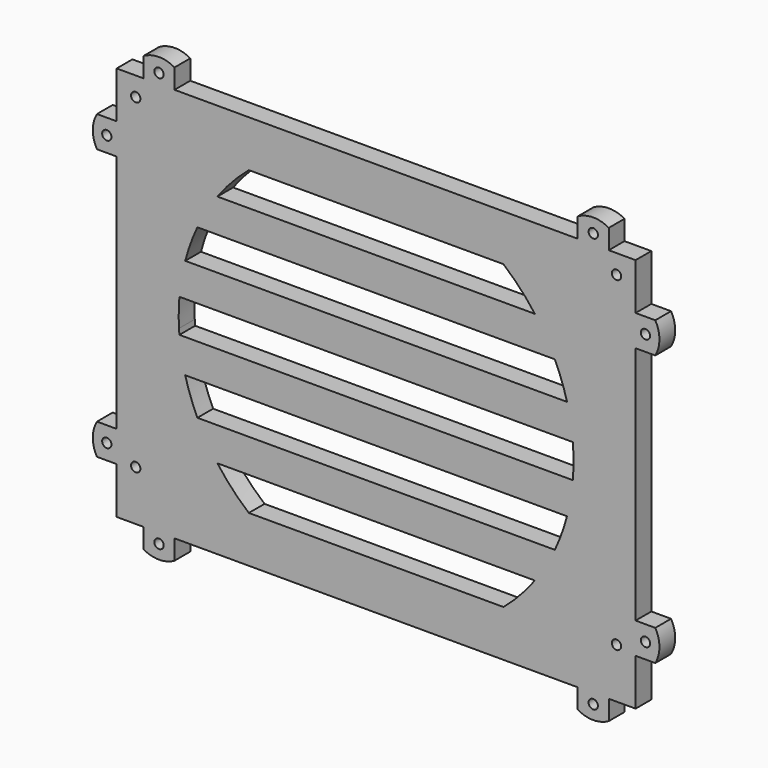
from build123d import *

# Parameters (mm, degrees)
F0_R     = 1.5
F1_DEPTH = 6.35


with BuildPart() as f1:
    # F0 (on Front) → F1 (new body)
    with BuildSketch(Plane.XZ):
        with BuildLine():
            Line((0, 15), (0, 0))
            Line((0, 0), (8.65, 0))
            Line((8.65, 0), (8.65, -6.35))
            ThreePointArc((8.65, -6.35), (13.65, -7.689746), (18.65, -6.35))
            Line((18.65, -6.35), (18.65, 0))
            Line((18.65, 0), (148.65, 0))
            Line((148.65, 0), (148.65, -6.35))
            ThreePointArc((148.65, -6.35), (153.65, -7.689746), (158.65, -6.35))
            Line((158.65, -6.35), (158.65, -6.289838))
            Line((158.65, -6.289838), (158.65, 0))
            Line((158.65, 0), (167.3, 0))
            Line((167.3, 0), (167.3, 15))
            Line((167.3, 15), (173.65, 15))
            ThreePointArc((173.65, 15), (174.989746, 20), (173.65, 25))
            Line((173.65, 25), (167.3, 25))
            Line((167.3, 25), (167.3, 102.3))
            Line((167.3, 102.3), (173.65, 102.3))
            ThreePointArc((173.65, 102.3), (174.989746, 107.3), (173.65, 112.3))
            Line((173.65, 112.3), (167.3, 112.3))
            Line((167.3, 112.3), (167.3, 127.3))
            Line((167.3, 127.3), (158.65, 127.3))
            Line((158.65, 127.3), (158.65, 133.65))
            ThreePointArc((158.65, 133.65), (153.65, 134.989746), (148.65, 133.65))
            Line((148.65, 133.65), (148.65, 127.3))
            Line((148.65, 127.3), (18.65, 127.3))
            Line((18.65, 127.3), (18.65, 133.65))
            ThreePointArc((18.65, 133.65), (13.65, 134.989746), (8.65, 133.65))
            Line((8.65, 133.65), (8.65, 127.3))
            Line((8.65, 127.3), (0, 127.3))
            Line((0, 127.3), (0, 112.3))
            Line((0, 112.3), (-6.35, 112.3))
            ThreePointArc((-6.35, 112.3), (-7.689746, 107.3), (-6.35, 102.3))
            Line((-6.35, 102.3), (0, 102.3))
            Line((0, 102.3), (0, 25))
            Line((0, 25), (-6.35, 25))
            ThreePointArc((-6.35, 25), (-7.689746, 20), (-6.35, 15))
            Line((-6.35, 15), (0, 15))
        make_face()
        with Locations((13.65, -3.175)):
            Circle(F0_R, mode=Mode.SUBTRACT)
        with Locations((6.15, 16.15)):
            Circle(F0_R, mode=Mode.SUBTRACT)
        with Locations((-3.175, 20)):
            Circle(F0_R, mode=Mode.SUBTRACT)
        with BuildLine():
            Line((32.471991, 25.806455), (134.828009, 25.806455))
            ThreePointArc((134.828009, 25.806455), (130.075832, 20.107324), (124.692661, 15))
            Line((124.692661, 15), (42.607339, 15))
            ThreePointArc((42.607339, 15), (37.224168, 20.107324), (32.471991, 25.806455))
        make_face(mode=Mode.SUBTRACT)
        with BuildLine():
            Line((22.104172, 47.419365), (145.195828, 47.419365))
            ThreePointArc((145.195828, 47.419365), (143.478503, 41.927369), (141.272203, 36.61291))
            Line((141.272203, 36.61291), (26.027797, 36.61291))
            ThreePointArc((26.027797, 36.61291), (23.821497, 41.927369), (22.104172, 47.419365))
        make_face(mode=Mode.SUBTRACT)
        with Locations((153.65, -3.175)):
            Circle(F0_R, mode=Mode.SUBTRACT)
        with Locations((161.15, 16.15)):
            Circle(F0_R, mode=Mode.SUBTRACT)
        with Locations((170.475, 20)):
            Circle(F0_R, mode=Mode.SUBTRACT)
        with BuildLine():
            ThreePointArc((20.1014, 60.058627), (20.006631, 64.568711), (20.231542, 69.074179))
            Line((20.231542, 69.074179), (147.068458, 69.074179))
            ThreePointArc((147.068458, 69.074179), (147.299997, 63.671028), (147.072028, 58.267724))
            Line((147.072028, 58.267724), (20.227972, 58.267724))
            ThreePointArc((20.227972, 58.267724), (20.158371, 59.162729), (20.1014, 60.058627))
        make_face(mode=Mode.SUBTRACT)
        with BuildLine():
            ThreePointArc((22.104172, 79.880635), (23.821497, 85.372631), (26.027797, 90.68709))
            Line((26.027797, 90.68709), (141.272203, 90.68709))
            ThreePointArc((141.272203, 90.68709), (143.478503, 85.372631), (145.195828, 79.880635))
            Line((145.195828, 79.880635), (22.104172, 79.880635))
        make_face(mode=Mode.SUBTRACT)
        with Locations((-3.175, 107.3)):
            Circle(F0_R, mode=Mode.SUBTRACT)
        with Locations((6.15, 121.15)):
            Circle(F0_R, mode=Mode.SUBTRACT)
        with Locations((13.65, 130.475)):
            Circle(F0_R, mode=Mode.SUBTRACT)
        with BuildLine():
            ThreePointArc((32.471991, 101.493545), (37.224168, 107.192676), (42.607339, 112.3))
            Line((42.607339, 112.3), (124.692661, 112.3))
            ThreePointArc((124.692661, 112.3), (130.075832, 107.192676), (134.828009, 101.493545))
            Line((134.828009, 101.493545), (32.471991, 101.493545))
        make_face(mode=Mode.SUBTRACT)
        with Locations((170.475, 107.3)):
            Circle(F0_R, mode=Mode.SUBTRACT)
        with Locations((161.15, 121.15)):
            Circle(F0_R, mode=Mode.SUBTRACT)
        with Locations((153.65, 130.475)):
            Circle(F0_R, mode=Mode.SUBTRACT)
    extrude(amount=F1_DEPTH)


solid = f1.part
